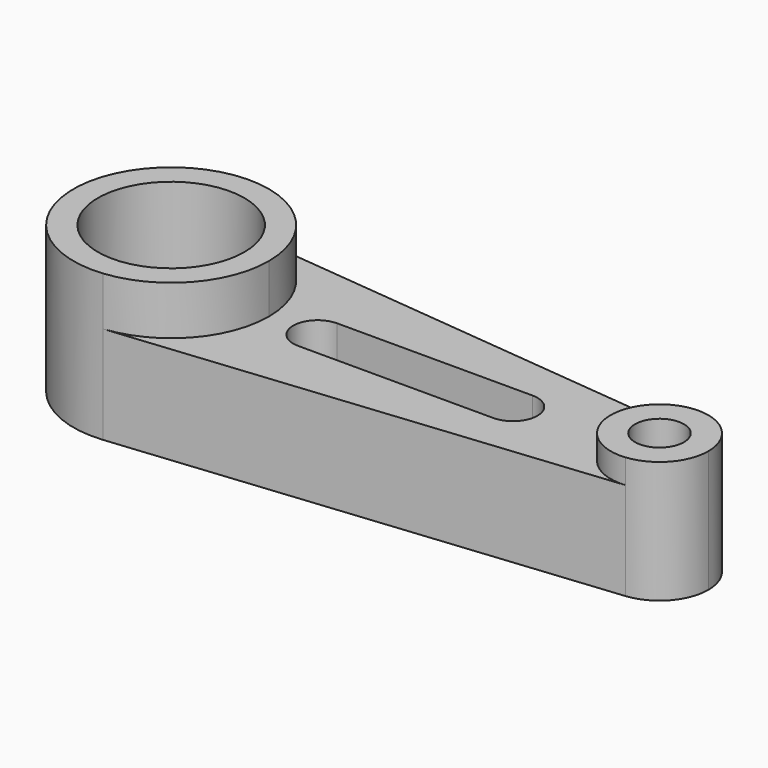
from build123d import *

# Parameters (mm, degrees)
F0_R     = 19.05
F0_R_2   = 6.35
F1_DEPTH = 25.4
F2_DEPTH = 38.1
F3_DEPTH = 31.75


with BuildPart() as f1:
    # F0 (on Top) → F1 (new body)
    with BuildSketch(Plane.XY):
        with BuildLine():
            ThreePointArc((-49.985285, 25.272681), (-33.688141, 17.038838), (-27.125285, 0))
            ThreePointArc((-27.125285, 0), (-33.688141, -17.038838), (-49.985285, -25.272681))
            Line((-49.985285, -25.272681), (75.744715, -12.63634))
            ThreePointArc((75.744715, -12.63634), (61.774715, 0), (75.744715, 12.63634))
            Line((75.744715, 12.63634), (-49.985285, 25.272681))
        make_face()
        with BuildLine():
            ThreePointArc((-14.425285, -6.35), (-20.775285, 0), (-14.425285, 6.35))
            Line((-14.425285, 6.35), (36.374715, 6.35))
            ThreePointArc((36.374715, 6.35), (42.724715, 0), (36.374715, -6.35))
            Line((36.374715, -6.35), (-14.425285, -6.35))
        make_face(mode=Mode.SUBTRACT)
        with BuildLine():
            ThreePointArc((-49.985285, -25.272681), (-33.688141, -17.038838), (-27.125285, 0))
            ThreePointArc((-27.125285, 0), (-33.688141, 17.038838), (-49.985285, 25.272681))
            ThreePointArc((-49.985285, 25.272681), (-77.925285, 0), (-49.985285, -25.272681))
        make_face()
        with Locations((-52.525285, 0)):
            Circle(F0_R, mode=Mode.SUBTRACT)
        with BuildLine():
            ThreePointArc((87.174715, 0), (83.893287, 8.519419), (75.744715, 12.63634))
            ThreePointArc((75.744715, 12.63634), (61.774715, 0), (75.744715, -12.63634))
            ThreePointArc((75.744715, -12.63634), (83.893287, -8.519419), (87.174715, 0))
        make_face()
        with Locations((74.474715, 0)):
            Circle(F0_R_2, mode=Mode.SUBTRACT)
    extrude(amount=F1_DEPTH)

    # F0 (on Top) → F2 (join)
    with BuildSketch(Plane.XY):
        with BuildLine():
            ThreePointArc((-49.985285, -25.272681), (-33.688141, -17.038838), (-27.125285, 0))
            ThreePointArc((-27.125285, 0), (-33.688141, 17.038838), (-49.985285, 25.272681))
            ThreePointArc((-49.985285, 25.272681), (-77.925285, 0), (-49.985285, -25.272681))
        make_face()
        with Locations((-52.525285, 0)):
            Circle(F0_R, mode=Mode.SUBTRACT)
    extrude(amount=F2_DEPTH)

    # F0 (on Top) → F3 (join)
    with BuildSketch(Plane.XY):
        with BuildLine():
            ThreePointArc((87.174715, 0), (83.893287, 8.519419), (75.744715, 12.63634))
            ThreePointArc((75.744715, 12.63634), (61.774715, 0), (75.744715, -12.63634))
            ThreePointArc((75.744715, -12.63634), (83.893287, -8.519419), (87.174715, 0))
        make_face()
        with Locations((74.474715, 0)):
            Circle(F0_R_2, mode=Mode.SUBTRACT)
    extrude(amount=F3_DEPTH)


solid = f1.part
